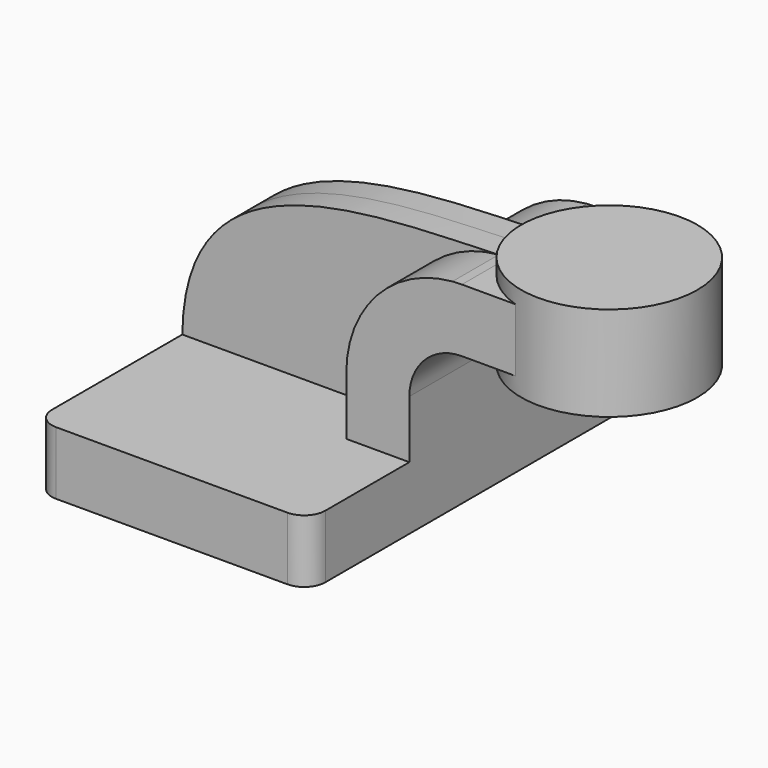
from build123d import *

# Parameters (mm, degrees)
F1_DEPTH = 63.5
F0_W     = 24.1857025899
F0_H     = 19.05
F2_DEPTH = 25.4
F3_DEPTH = 7.9375
F5_R     = 6.35


with BuildPart() as f1:
    # F0 (on Front) → F1 (new body, symmetric)
    with BuildSketch(Plane.XZ):
        Polygon((22.225, 9.525), (-41.275, 9.525), (-41.275, -9.525), (41.275, -9.525), (41.275, 9.525), align=None)
    extrude(amount=F1_DEPTH, both=True)

    # F0 (on Front) → F2 (join, symmetric)
    with BuildSketch(Plane.XZ):
        with BuildLine():
            Line((22.225, 27.0002), (22.225, 9.525))
            Line((22.225, 9.525), (41.275, 9.525))
            Line((41.275, 9.525), (41.275, 27.0002))
            ThreePointArc((41.275, 27.0002), (45.9246798487, 38.2255201513), (57.15, 42.8752))
            Line((57.15, 42.8752), (57.15, 61.9252))
            add(Edge.make_bspline(
                [(54.2900015648, 61.8079007852), (55.2509849967, 61.8452258423), (56.2046080591, 61.8840829618), (57.15, 61.9252)],
                knots=[108.9404327858, 108.9404327858, 108.9404327858, 108.9404327858, 111.5045361635, 111.5045361635, 111.5045361635, 111.5045361635], degree=3))
            ThreePointArc((54.2900015648, 61.8079007852), (31.4630279096, 50.6631476149), (22.225, 27.0002))
        make_face()
        with Locations((69.2428512949, 52.4002)):
            Rectangle(F0_W, F0_H)
    extrude(amount=F2_DEPTH, both=True)

    # F0 (on Front) → F3 (join, symmetric)
    with BuildSketch(Plane.XZ):
        with BuildLine():
            add(Edge.make_bspline(
                [(-41.275, 9.525), (-40.6545165411, 61.4018227943), (13.4609336457, 60.2220802175), (54.2900015648, 61.8079007852)],
                knots=[0, 0, 0, 0, 108.9404327858, 108.9404327858, 108.9404327858, 108.9404327858], degree=3))
            Line((-41.275, 9.525), (22.225, 9.525))
            Line((22.225, 9.525), (22.225, 27.0002))
            ThreePointArc((22.225, 27.0002), (31.4630279096, 50.6631476149), (54.2900015648, 61.8079007852))
        make_face()
    extrude(amount=F3_DEPTH, both=True)

    # F0 (on Front) → F4 (revolve)
    with BuildSketch(Plane.XZ):
        Polygon((81.3357025899, 66.675), (81.3357025899, 61.9252), (81.3357025899, 42.8752), (81.3357025899, 38.1), (107.95, 38.1), (107.95, 66.675), align=None)
    revolve(axis=Axis((81.3357025899, 0, 52.3875), (0, 0, 1)))

    # F5
    f5_edges = [f1.edges().sort_by_distance(p)[0] for p in [
        (41.275, -63.5, 0),
        (-41.275, -63.5, 0),
        (41.275, 63.5, 0),
        (-41.275, 63.5, 0),
    ]]
    fillet(f5_edges, radius=F5_R)


solid = f1.part
